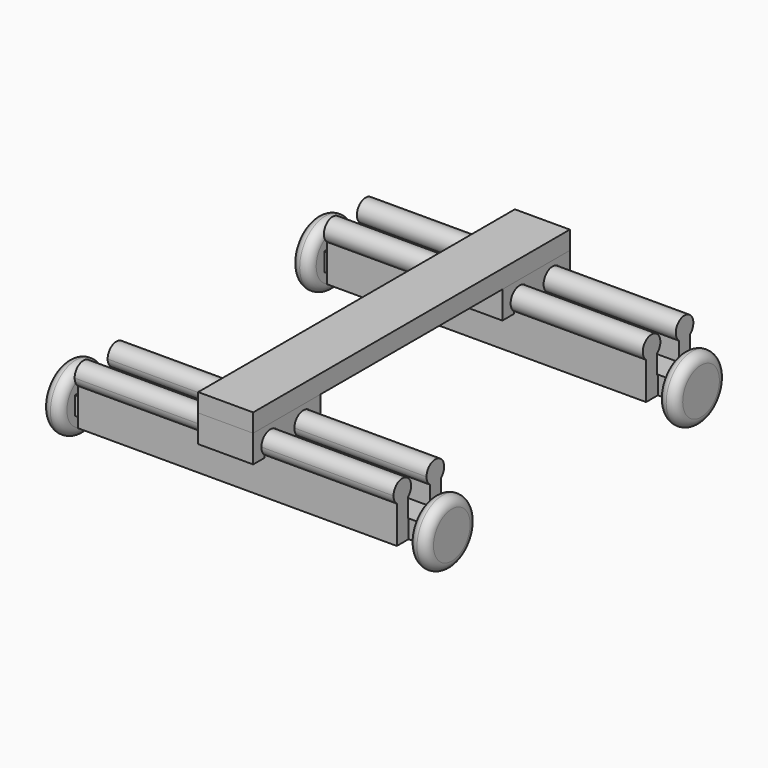
from build123d import *

# Parameters (mm, degrees)
F0_W      = 200
F0_H      = 10
F1_DEPTH  = 15
F3_R      = 17.5
F3_W      = 30
F3_H      = 10
F2_R      = 17.5
F2_W      = 30
F2_H      = 10
F4_DEPTH  = 5
F5_W      = 8
F5_H      = 8
F6_DEPTH  = 25
F12_DEPTH = 87
F14_DEPTH = 174
F16_DEPTH = 15
F18_W     = 30
F18_H     = 170
F18_H_2   = 46
F19_DEPTH = 10


with BuildPart() as f1:
    # F0 (on Front) → F1 (new body, symmetric)
    with BuildSketch(Plane.XZ):
        Rectangle(F0_W, F0_H)
    extrude(amount=F1_DEPTH, both=True)

    # F3 (on face) + F2 (on face) → F4 (join, symmetric)
    with BuildSketch(Plane.YZ.offset(100)):
        Circle(F3_R)
        Rectangle(F3_W, F3_H, mode=Mode.SUBTRACT)
        Rectangle(F3_W, F3_H)
    with BuildSketch(Plane(origin=(-100, 0, 0), x_dir=(0, -1, 0), z_dir=(-1, 0, 0))):
        Circle(F2_R)
        Rectangle(F2_W, F2_H, mode=Mode.SUBTRACT)
        Rectangle(F2_W, F2_H)
    extrude(amount=F4_DEPTH, both=True, dir=(1, 0, 0))

    # F5 (on face) → F6 (cut)
    with BuildSketch(Plane.XY.offset(5)):
        with Locations((-91, 11)):
            Rectangle(F5_W, F5_H)
        with Locations((-91, -11)):
            Rectangle(F5_W, F5_H)
        with Locations((91, 11)):
            Rectangle(F5_W, F5_H)
        with Locations((91, -11)):
            Rectangle(F5_W, F5_H)
    extrude(amount=-F6_DEPTH, mode=Mode.SUBTRACT)

    # F7 (on Front) → F9 (revolve, cut)
    with BuildSketch(Plane.XZ):
        with BuildLine():
            Line((-95, 17.5), (-100, 17.5))
            ThreePointArc((-100, 17.5), (-96.4644660941, 16.0355339059), (-95, 12.5))
            Line((-95, 12.5), (-95, 17.5))
        make_face()
        with BuildLine():
            Line((-105, 17.5), (-105, 12.5))
            ThreePointArc((-105, 12.5), (-103.5355339059, 16.0355339059), (-100, 17.5))
            Line((-100, 17.5), (-105, 17.5))
        make_face()
        with BuildLine():
            Line((95, 17.5), (95, 12.5))
            ThreePointArc((95, 12.5), (96.4644660941, 16.0355339059), (100, 17.5))
            Line((100, 17.5), (95, 17.5))
        make_face()
        with BuildLine():
            Line((105, 17.5), (100, 17.5))
            ThreePointArc((100, 17.5), (103.5355339059, 16.0355339059), (105, 12.5))
            Line((105, 12.5), (105, 17.5))
        make_face()
    revolve(axis=Axis((-5.7914964855, 0, 0), (1, 0, 0)), mode=Mode.SUBTRACT)

    # F11 (on Right) → F12 (join, symmetric)
    with BuildSketch(Plane.YZ):
        Polygon((-15, 0), (15, 0), (15, 20), (7.5, 20), (7.5, 5), (-7.5, 5), (-7.5, 20), (-15, 20), align=None)
    extrude(amount=F12_DEPTH, both=True)

    # F13 (on face) → F14 (join, through all)
    with BuildSketch(Plane(origin=(-87, 0, 0), x_dir=(0, -1, 0), z_dir=(-1, 0, 0))):
        with BuildLine():
            Line((-15, 20), (-15, 15.3162515012))
            ThreePointArc((-15, 15.3162515012), (-11.25, 14), (-7.5, 15.3162515012))
            Line((-7.5, 15.3162515012), (-7.5, 20))
            Line((-7.5, 20), (-15, 20))
        make_face()
        with BuildLine():
            ThreePointArc((-7.5, 15.3162515012), (-5.8416730868, 17.4019237886), (-5.25, 20))
            ThreePointArc((-5.25, 20), (-13.8480762114, 25.4083269132), (-15, 15.3162515012))
            Line((-15, 15.3162515012), (-15, 20))
            Line((-15, 20), (-7.5, 20))
            Line((-7.5, 20), (-7.5, 15.3162515012))
        make_face()
        with BuildLine():
            ThreePointArc((15, 15.3162515012), (16.6583269132, 17.4019237886), (17.25, 20))
            ThreePointArc((17.25, 20), (8.6519237886, 25.4083269132), (7.5, 15.3162515012))
            Line((7.5, 15.3162515012), (7.5, 20))
            Line((7.5, 20), (15, 20))
            Line((15, 20), (15, 15.3162515012))
        make_face()
    extrude(amount=-F14_DEPTH)


with BuildPart() as f16:
    # F15 (on Right) → F16 (new body, symmetric)
    with BuildSketch(Plane.YZ):
        with BuildLine():
            Line((23, 14), (23, 29))
            Line((23, 29), (-23, 29))
            Line((-23, 29), (-23, 14))
            Line((-23, 14), (-15.1, 14))
            Line((-15.1, 14), (-15.1, 15.2362698439))
            ThreePointArc((-15.1, 15.2362698439), (-11.25, 26.125), (-7.4, 15.2362698439))
            Line((-7.4, 15.2362698439), (-7.4, 14))
            Line((-7.4, 14), (7.4, 14))
            Line((7.4, 14), (7.4, 15.2362698439))
            ThreePointArc((7.4, 15.2362698439), (11.25, 26.125), (15.1, 15.2362698439))
            Line((15.1, 15.2362698439), (15.1, 14))
            Line((15.1, 14), (23, 14))
        make_face()
    extrude(amount=F16_DEPTH, both=True)


with BuildPart() as f17_1:
    # F17: instance of F1
    add(f1.part.mirror(Plane.XZ.offset(-85)))


with BuildPart() as f17_2:
    # F17: instance of F16
    add(f16.part.mirror(Plane.XZ.offset(-85)))


with BuildPart() as f19:
    # F18 (on face) → F19 (new body)
    with BuildSketch(Plane.XY.offset(29)):
        with Locations((0, 62)):
            Rectangle(F18_W, F18_H)
        with Locations((0, 170)):
            Rectangle(F18_W, F18_H_2)
    extrude(amount=F19_DEPTH)


solid = Compound([f1.part, f16.part, f17_1.part, f17_2.part, f19.part])
